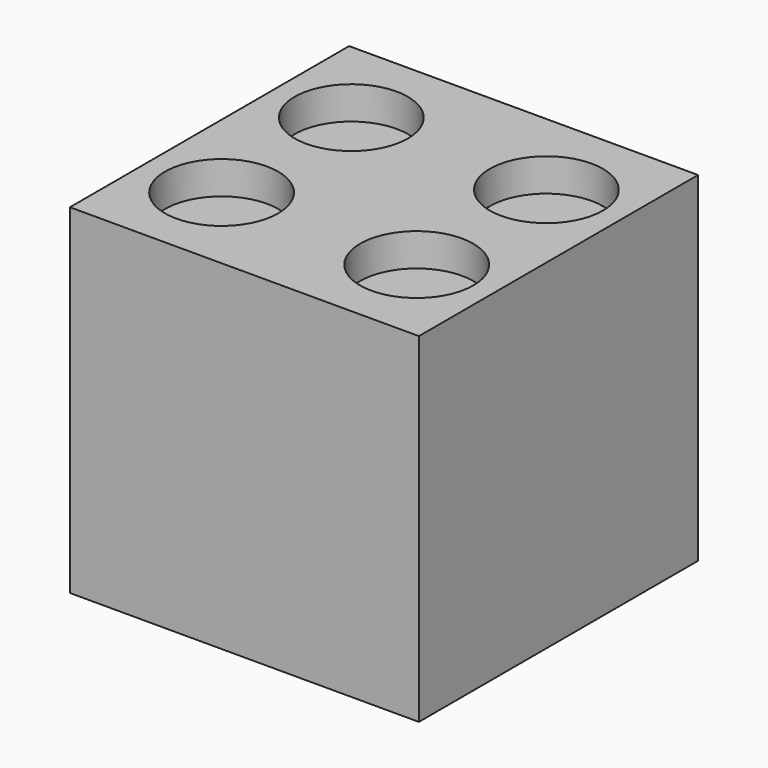
from build123d import *

# Parameters (mm, degrees)
F0_W     = 31.851116
F0_H     = 31.851116
F1_DEPTH = 31
F2_R     = 5.164209
F3_DEPTH = 3
F4_R     = 4.113364
F4_R_2   = 3.901474
F5_DEPTH = 3


with BuildPart() as f1:
    # F0 (on Top) → F1 (new body)
    with BuildSketch(Plane.XY):
        Rectangle(F0_W, F0_H)
    extrude(amount=F1_DEPTH)

    # F2 (on face) → F3 (cut)
    with BuildSketch(Plane.XY.offset(31)):
        with Locations((-8.903265, 7.398488)):
            Circle(F2_R)
        with Locations((8.903265, 7.398488)):
            Circle(F2_R)
        with Locations((8.903265, -7.398488)):
            Circle(F2_R)
        with Locations((-8.903265, -7.398488)):
            Circle(F2_R)
    extrude(amount=-F3_DEPTH, mode=Mode.SUBTRACT)

    # F4 (on face) → F5 (cut)
    with BuildSketch(Plane(origin=(0, 0, 0), x_dir=(1, 0, 0), z_dir=(0, 0, -1))):
        with Locations((-9.906449, 9.655653)):
            Circle(F4_R)
        Circle(F4_R)
        with Locations((9.404857, -10.408042)):
            Circle(F4_R_2)
    extrude(amount=-F5_DEPTH, mode=Mode.SUBTRACT)


solid = f1.part
